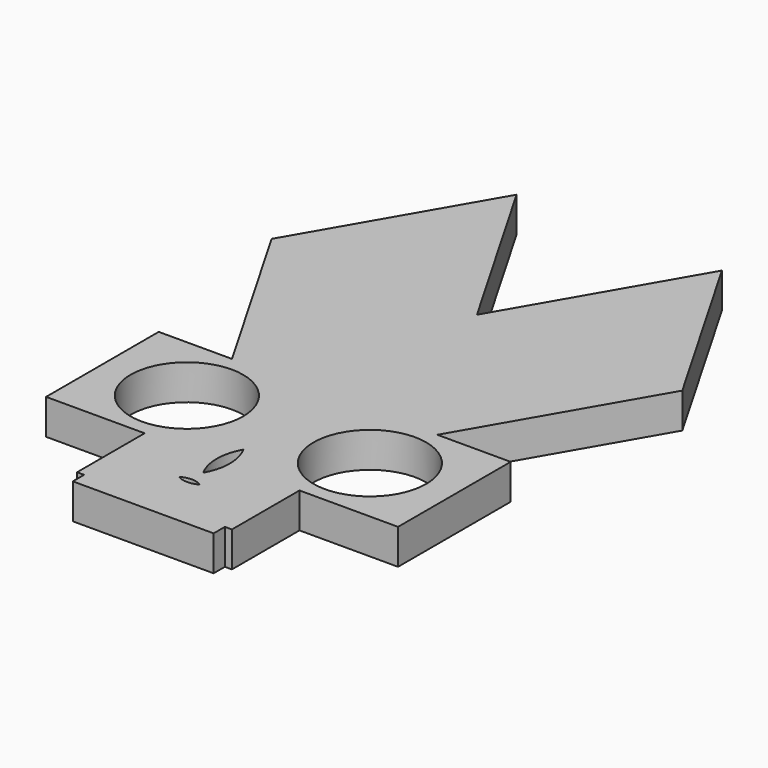
from build123d import *

# Parameters (mm, degrees)
F0_R     = 8
F0_W     = 20
F0_H     = 2
F1_DEPTH = 5


with BuildPart() as f1:
    # F0 (on Top) → F1 (new body)
    with BuildSketch(Plane.XY):
        Polygon((28.224968, -25.266338), (17.812495, -25.266338), (17.812495, -35.266338), (17.812495, -45.266338), (31.812495, -45.266338), (31.812495, -57.266338), (32.812495, -57.266338), (52.812495, -57.266338), (53.812495, -57.266338), (53.812495, -45.266338), (67.812495, -45.266338), (67.812495, -25.266338), (57.400022, -25.266338), align=None)
        with Locations((29.812495, -35.266338)):
            Circle(F0_R, mode=Mode.SUBTRACT)
        with BuildLine():
            ThreePointArc((44.317, -51.059522), (42.812495, -51.469457), (41.30799, -51.059522))
            ThreePointArc((41.30799, -51.059522), (42.812495, -50.649587), (44.317, -51.059522))
        make_face(mode=Mode.SUBTRACT)
        with BuildLine():
            ThreePointArc((42.812495, -41.474152), (43.744123, -45.047218), (42.812495, -48.620284))
            ThreePointArc((42.812495, -48.620284), (41.880867, -45.047218), (42.812495, -41.474152))
        make_face(mode=Mode.SUBTRACT)
        with Locations((55.812495, -35.266338)):
            Circle(F0_R, mode=Mode.SUBTRACT)
        Polygon((13.637441, 0), (28.224968, -25.266338), (57.400022, -25.266338), (71.987549, 0), (57.400022, 25.266338), (42.812495, 0), (28.224968, 25.266338), align=None)
        with Locations((42.812495, -58.266338)):
            Rectangle(F0_W, F0_H)
    extrude(amount=F1_DEPTH)


solid = f1.part
